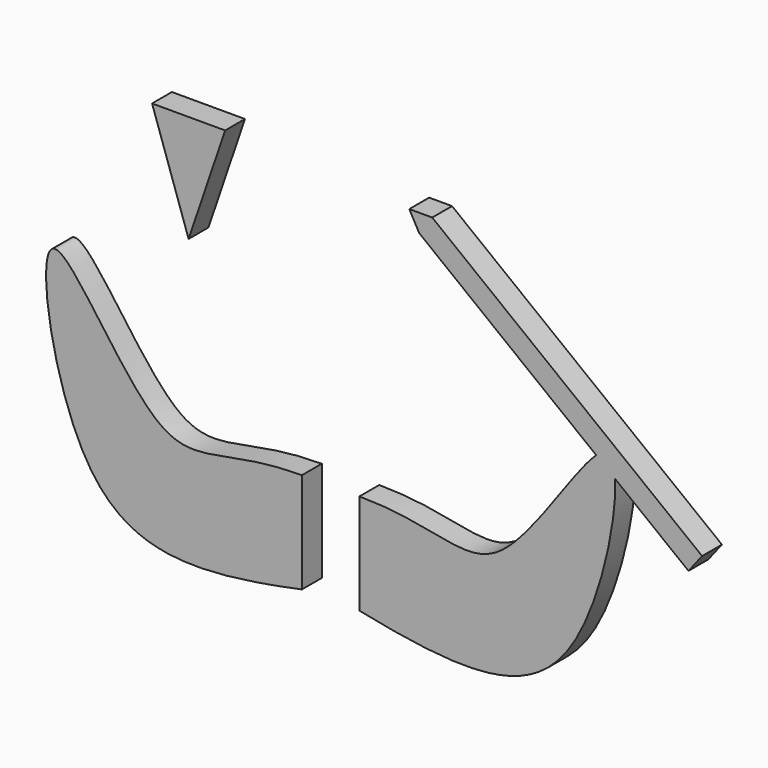
from build123d import *

# Parameters (mm, degrees)
F1_DEPTH = 5


with BuildPart() as f1:
    # F0 (on Front) → F1 (new body)
    with BuildSketch(Plane.XZ):
        with BuildLine():
            add(Edge.make_bspline(
                [(0, 0), (15.9015151371, 0), (26.4899665265, -10.7539190788), (43.2731033817, 18.8059254272), (47.753190481, 22.8430924697)],
                knots=[0, 0, 0, 0, 0.2271887895, 0.425837087, 0.425837087, 0.425837087, 0.425837087], degree=3))
            Line((0, 0), (0, -20.2858335729))
            add(Edge.make_bspline(
                [(51.5609638692, 19.8762996779), (51.9481337767, 12.6527851468), (44.16658315, -24.6715949147), (22.7806904614, -25.0505565737), (0, -20.2858335729)],
                knots=[0.5280104609, 0.5280104609, 0.5280104609, 0.5280104609, 0.7190237466, 1, 1, 1, 1], degree=3))
            Line((51.5609638692, 19.8762996779), (47.753190481, 22.8430924697))
        make_face()
        with BuildLine():
            Line((12.0509136468, 50.6602041423), (47.753190481, 22.8430924697))
            add(Edge.make_bspline(
                [(47.753190481, 22.8430924697), (48.6483085535, 23.649715444), (50.6084428251, 24.7240186276), (51.4343142158, 22.2392302507), (51.5609638692, 19.8762996779)],
                knots=[0.425837087, 0.425837087, 0.425837087, 0.425837087, 0.4655268692, 0.5280104609, 0.5280104609, 0.5280104609, 0.5280104609], degree=3))
            Line((51.5609638692, 19.8762996779), (66.3471370935, 8.3557842299))
            Line((66.3471370935, 8.3557842299), (69.0945762663, 11.8820250232))
            Line((69.0945762663, 11.8820250232), (14.6800910727, 54.2785875245))
            Line((14.6800910727, 54.2785875245), (10.0522795692, 54.2785875245))
            Line((10.0522795692, 54.2785875245), (12.0509136468, 50.6602041423))
        make_face()
        with BuildLine():
            add(Edge.make_bspline(
                [(47.753190481, 22.8430924697), (48.6483085535, 23.649715444), (50.6084428251, 24.7240186276), (51.4343142158, 22.2392302507), (51.5609638692, 19.8762996779)],
                knots=[0.425837087, 0.425837087, 0.425837087, 0.425837087, 0.4655268692, 0.5280104609, 0.5280104609, 0.5280104609, 0.5280104609], degree=3))
            Line((47.753190481, 22.8430924697), (51.5609638692, 19.8762996779))
        make_face()
    extrude(amount=F1_DEPTH)


with BuildPart() as f1b:
    # F0 (on Front) → F1, piece 2 (new body)
    with BuildSketch(Plane.XZ):
        with BuildLine():
            Line((-11.593026109, -20.2858335729), (-11.593026109, 0))
            add(Edge.make_bspline(
                [(-11.593026109, 0), (-27.4945412461, 0), (-39.0698802089, -11.7562289268), (-68.3830079959, 44.4997850165), (-58.5907469778, -24.6214266724), (-34.3737165704, -25.0505565737), (-11.593026109, -20.2858335729)],
                knots=[0, 0, 0, 0, 0.2271887895, 0.4655268692, 0.7190237466, 1, 1, 1, 1], degree=3))
        make_face()
    extrude(amount=F1_DEPTH)


with BuildPart() as f1c:
    # F0 (on Front) → F1, piece 3 (new body)
    with BuildSketch(Plane.XZ):
        Polygon((-27.0791046494, 56.1581999063), (-41.8100565533, 56.1581999063), (-34.4443290206, 34.4983536023), align=None)
    extrude(amount=F1_DEPTH)


solid = Compound([f1.part, f1b.part, f1c.part])
